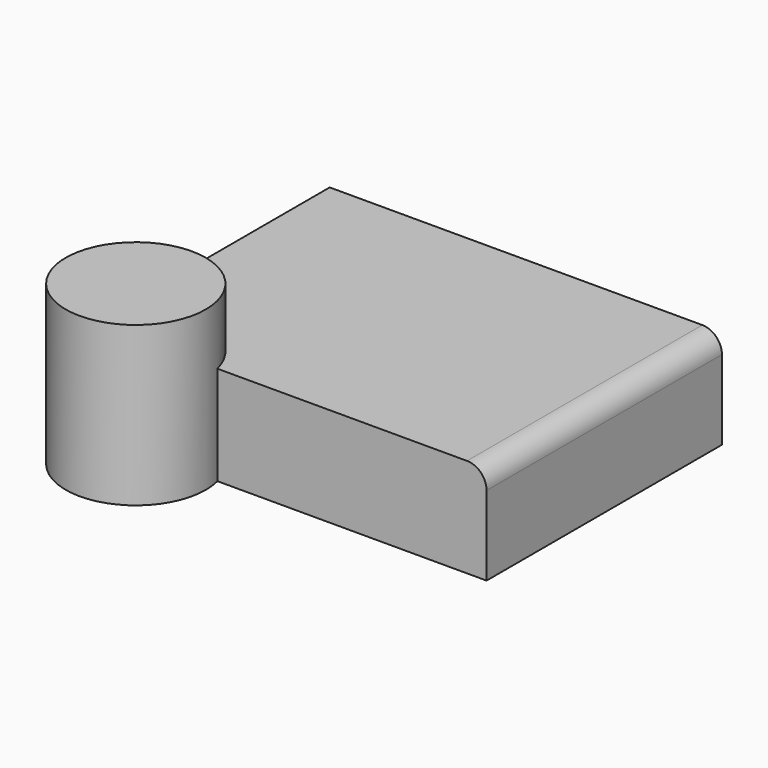
from build123d import *

# Parameters (mm, degrees)
F0_W     = 101.6
F0_H     = 76.2
F1_DEPTH = 25.654
F2_R     = 5.08
F3_R     = 18.139264
F4_DEPTH = 41.148


with BuildPart() as f1:
    # F0 (on Top) → F1 (new body)
    with BuildSketch(Plane.XY):
        with Locations((0.522892, 4.871118)):
            Rectangle(F0_W, F0_H)
    extrude(amount=F1_DEPTH)

    # F2
    f2_edges = [f1.edges().sort_by_distance(p)[0] for p in [
        (51.322892, 4.871118, 25.654),
    ]]
    fillet(f2_edges, radius=F2_R)

    # F3 (on Top) → F4 (join)
    with BuildSketch(Plane.XY):
        with Locations((-35.991579, -37.675709)):
            Circle(F3_R)
    extrude(amount=F4_DEPTH)


solid = f1.part
